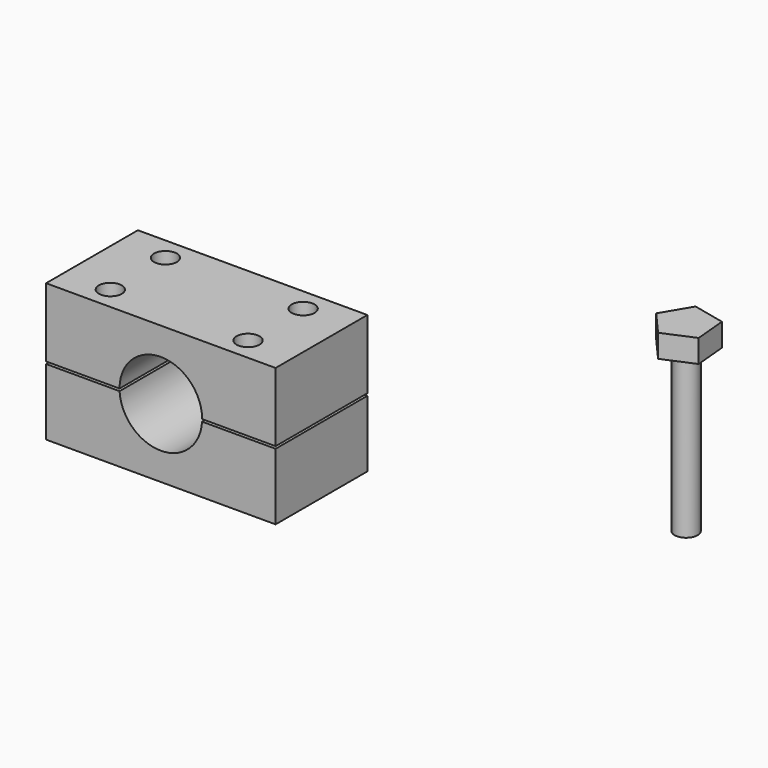
from build123d import *

# Parameters (mm, degrees)
F0_W      = 50
F0_H      = 15
F1_DEPTH  = 25
F2_W      = 50
F2_H      = 15
F3_DEPTH  = 25
F4_R      = 9
F5_DEPTH  = 25.001
F6_W      = 84.721566
F6_H      = 73.151662
F7_DEPTH  = 0.5
F9_D      = 5
F10_R     = 2.5
F11_DEPTH = 35
F12_R     = 2.5
F13_DEPTH = 5


with BuildPart() as f1:
    # F0 (on Front) → F1 (new body)
    with BuildSketch(Plane.XZ):
        with Locations((0, -7.5)):
            Rectangle(F0_W, F0_H)
    extrude(amount=F1_DEPTH)

    # F2 (on Front) → F3 (join)
    with BuildSketch(Plane.XZ):
        with Locations((0, 7.5)):
            Rectangle(F2_W, F2_H)
    extrude(amount=F3_DEPTH)

    # F4 (on face) → F5 (cut, through all)
    with BuildSketch(Plane.XZ.offset(25)):
        Circle(F4_R)
    extrude(amount=-F5_DEPTH, mode=Mode.SUBTRACT)

    # F6 (on Top) → F7 (cut)
    with BuildSketch(Plane.XY):
        Rectangle(F6_W, F6_H)
    extrude(amount=-F7_DEPTH, mode=Mode.SUBTRACT)

    # F9 (through all)
    with Locations(Plane.XY.offset(15)):
        with Locations((-15, -5), (-15, -20), (15, -5), (15, -20)):
            Hole(F9_D / 2)


with BuildPart() as f11:
    # F10 (on Top) → F11 (new body)
    with BuildSketch(Plane.XY):
        with Locations((57.054702, 46.72651)):
            Circle(F10_R)
    extrude(amount=-F11_DEPTH)

    # F12 (on face) → F13 (join)
    with BuildSketch(Plane.XY):
        Polygon((54.648821, 52.33206), (50.980049, 46.170591), (55.706241, 40.777383), (62.29596, 43.605666), (61.642439, 50.746849), align=None)
        with Locations((57.054702, 46.72651)):
            Circle(F12_R, mode=Mode.SUBTRACT)
        with Locations((57.054702, 46.72651)):
            Circle(F12_R)
    extrude(amount=F13_DEPTH)


solid = Compound([f1.part, f11.part])
